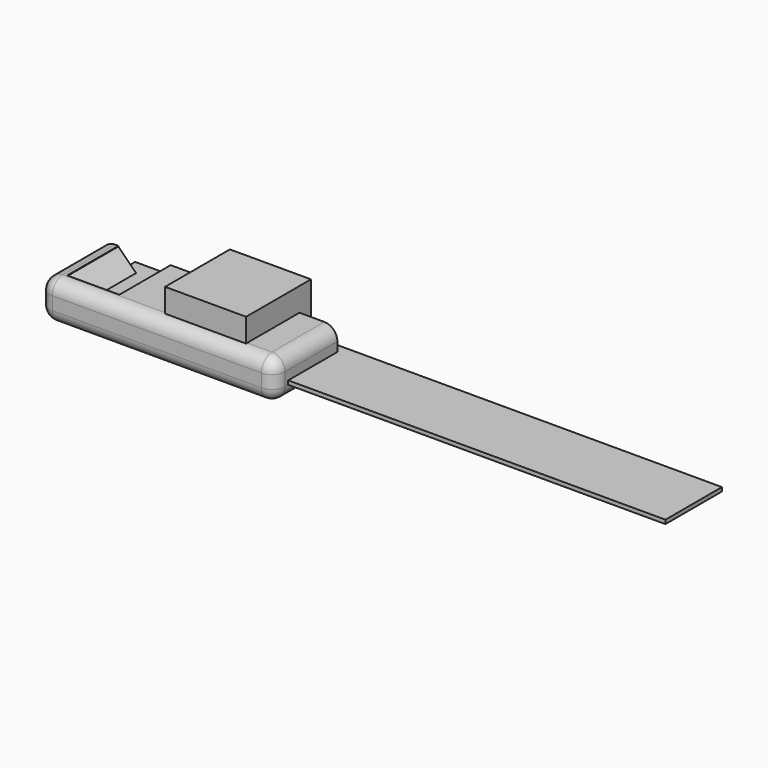
from build123d import *

# Parameters (mm, degrees)
BOX_W        = 6.2
BOX_H        = 6.2
BOX_DEPTH    = 3.8
BOX003_W     = 3.2
BOX003_H     = 6.2
BOX003_DEPTH = 0.6
BOX002_W     = 2.15
BOX002_H     = 5.4
BOX002_DEPTH = 0.3
BOX001_W     = 10
BOX001_H     = 6.2
BOX001_DEPTH = 0.6
BOX004_W     = 30
BOX004_H     = 5.4
BOX004_DEPTH = 0.3
BOX006_W     = 6.2
BOX006_H     = 6.2
BOX006_DEPTH = 3.8
BOX007_W     = 4
BOX007_H     = 6.2
BOX007_DEPTH = 3
CHAMFER_SIZE = 1.95
BOX005_W     = 18
BOX005_H     = 6
BOX005_DEPTH = 3
FILLET_R     = 1


with BuildPart() as camera:
    # Box → Box (new body)
    with BuildSketch(Plane(origin=(-3.1, -3.1, 0), x_dir=(1, 0, 0), z_dir=(0, 0, 1))):
        with Locations((3.1, 3.1)):
            Rectangle(BOX_W, BOX_H)
    extrude(amount=BOX_DEPTH)


with BuildPart() as cube002:
    # Box003 → Box003 (new body)
    with BuildSketch(Plane(origin=(-10.35, -3.1, 0), x_dir=(1, 0, 0), z_dir=(0, 0, 1))):
        with Locations((1.6, 3.1)):
            Rectangle(BOX003_W, BOX003_H)
    extrude(amount=BOX003_DEPTH)


with BuildPart() as cube001:
    # Box002 → Box002 (new body)
    with BuildSketch(Plane(origin=(-7.15, -2.7, 0), x_dir=(1, 0, 0), z_dir=(0, 0, 1))):
        with Locations((1.075, 2.7)):
            Rectangle(BOX002_W, BOX002_H)
    extrude(amount=BOX002_DEPTH)


with BuildPart() as cube:
    # Box001 → Box001 (new body)
    with BuildSketch(Plane(origin=(-5, -3.1, 0), x_dir=(1, 0, 0), z_dir=(0, 0, 1))):
        with Locations((5, 3.1)):
            Rectangle(BOX001_W, BOX001_H)
    extrude(amount=BOX001_DEPTH)


with BuildPart() as fusion:
    # Box004 → Box004 (new body)
    with BuildSketch(Plane(origin=(4.85, -2.7, 0), x_dir=(1, 0, 0), z_dir=(0, 0, 1))):
        with Locations((15, 2.7)):
            Rectangle(BOX004_W, BOX004_H)
    extrude(amount=BOX004_DEPTH)

    # Fusion: union Cube002, Cube001, Cube
    add(cube002.part)
    add(cube001.part)
    add(cube.part)


with BuildPart() as camera001:
    # Box006 → Box006 (new body)
    with BuildSketch(Plane(origin=(-3.1, -3.1, 0), x_dir=(1, 0, 0), z_dir=(0, 0, 1))):
        with Locations((3.1, 3.1)):
            Rectangle(BOX006_W, BOX006_H)
    extrude(amount=BOX006_DEPTH)


with BuildPart() as chamfer_body:
    # Box007 → Box007 (new body)
    with BuildSketch(Plane(origin=(-10.75, -3.1, 0), x_dir=(1, 0, 0), z_dir=(0, 0, 1))):
        with Locations((2, 3.1)):
            Rectangle(BOX007_W, BOX007_H)
    extrude(amount=BOX007_DEPTH)

    # Chamfer
    chamfer_edges = [chamfer_body.edges().sort_by_distance(p)[0] for p in [
        (-10.75, 0, 0),
        (-6.75, 0, 0),
    ]]
    chamfer(chamfer_edges, length=CHAMFER_SIZE)


with BuildPart() as chamfer_body_1:
    # Chamfer placement: moved
    add(chamfer_body.part.moved(Location((0, 0.2, 0))))


with BuildPart() as cut:
    # Box005 → Box005 (new body)
    with BuildSketch(Plane(origin=(-12, -4, -1), x_dir=(1, 0, 0), z_dir=(0, 0, 1))):
        with Locations((9, 3)):
            Rectangle(BOX005_W, BOX005_H)
    extrude(amount=BOX005_DEPTH)

    # Fillet
    fillet_edges = [cut.edges().sort_by_distance(p)[0] for p in [
        (-12, -4, 0.5),
        (-12, -1, 2),
        (-12, -1, -1),
        (6, -4, 0.5),
        (6, -1, 2),
        (6, -1, -1),
        (-3, -4, -1),
        (-3, -4, 2),
    ]]
    fillet(fillet_edges, radius=FILLET_R)

    # Cut: cut Chamfer body
    add(chamfer_body_1.part, mode=Mode.SUBTRACT)


solid = Compound([camera.part, fusion.part, camera001.part, cut.part])
